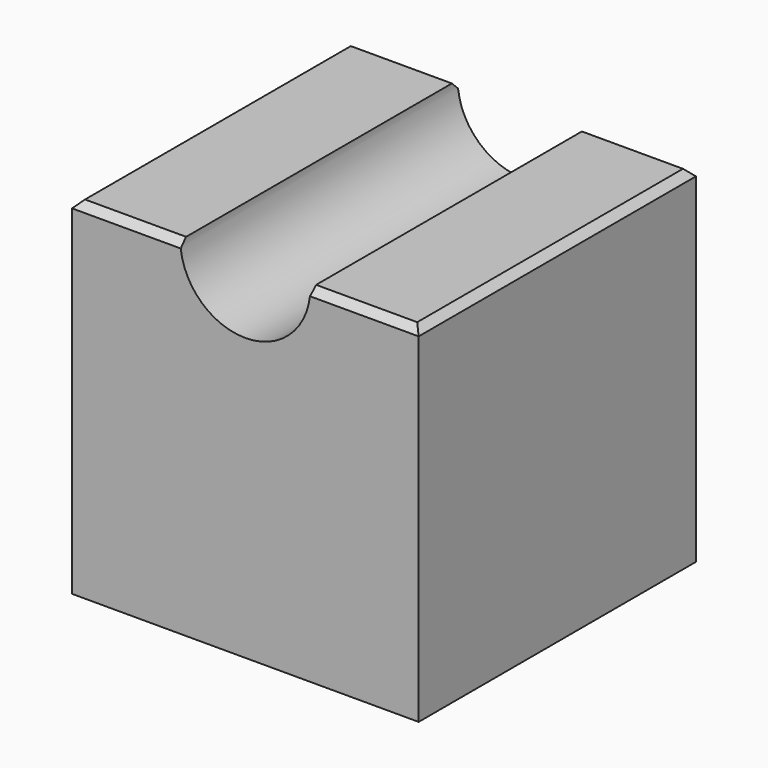
from build123d import *

# Parameters (mm, degrees)
F0_W     = 48
F0_H     = 48
F1_DEPTH = 48
F3_DEPTH = 48
F4_SIZE  = 1


with BuildPart() as f1:
    # F0 (on Front) → F1 (new body)
    with BuildSketch(Plane.XZ):
        Rectangle(F0_W, F0_H)
    extrude(amount=F1_DEPTH)

    # F2 (on face) → F3 (cut)
    with BuildSketch(Plane.XZ.offset(48)):
        with BuildLine():
            ThreePointArc((-9, 24), (0, 15), (9, 24))
            Line((9, 24), (-9, 24))
        make_face()
    extrude(amount=-F3_DEPTH, mode=Mode.SUBTRACT)

    # F4
    f4_edges = [f1.edges().sort_by_distance(p)[0] for p in [
        (16.5, -48, 24),
        (-16.5, -48, 24),
        (24, -24, 24),
        (16.5, 0, 24),
        (-16.5, 0, 24),
        (-24, -24, 24),
    ]]
    chamfer(f4_edges, length=F4_SIZE)


solid = f1.part
